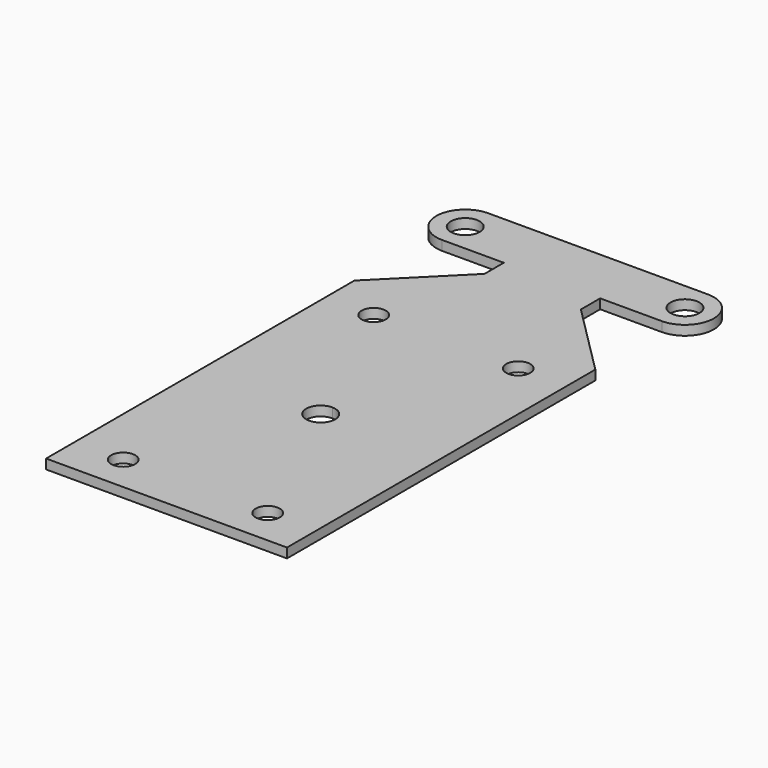
from build123d import *

# Parameters (mm, degrees)
F0_W     = 25
F0_H     = 15
F0_R     = 2.5
F0_R_2   = 3
F1_DEPTH = 2


with BuildPart() as f1:
    # F0 (on Top) → F1 (new body)
    with BuildSketch(Plane.XY):
        with Locations((12.5, 7.5)):
            Rectangle(F0_W, F0_H)
        with Locations((15, 7.5)):
            Circle(F0_R, mode=Mode.SUBTRACT)
        with Locations((-12.5, 7.5)):
            Rectangle(F0_W, F0_H)
        with Locations((-15, 7.5)):
            Circle(F0_R, mode=Mode.SUBTRACT)
        with BuildLine():
            Line((-25, 15), (0, 15))
            Line((0, 15), (0, 37))
            ThreePointArc((0, 37), (-3, 40), (0, 43))
            Line((0, 43), (0, 65))
            Line((0, 65), (-25, 65))
            Line((-25, 65), (-25, 15))
        make_face()
        with BuildLine():
            Line((0, 37), (0, 15))
            Line((0, 15), (25, 15))
            Line((25, 15), (25, 65))
            Line((25, 65), (0, 65))
            Line((0, 65), (0, 43))
            ThreePointArc((0, 43), (2.12132, 42.12132), (3, 40))
            ThreePointArc((3, 40), (2.12132, 37.87868), (0, 37))
        make_face()
        with Locations((12.5, 72.5)):
            Rectangle(F0_W, F0_H)
        with Locations((15, 72.5)):
            Circle(F0_R, mode=Mode.SUBTRACT)
        with Locations((-12.5, 72.5)):
            Rectangle(F0_W, F0_H)
        with Locations((-15, 72.5)):
            Circle(F0_R, mode=Mode.SUBTRACT)
        with BuildLine():
            Line((0, 80), (25, 80))
            Line((25, 80), (10, 95))
            Line((10, 95), (10, 100))
            Line((10, 100), (22.800364, 100))
            ThreePointArc((22.800364, 100), (28.800364, 106), (22.800364, 112))
            Line((22.800364, 112), (0, 112))
            Line((0, 112), (0, 80))
        make_face()
        with Locations((22.800364, 106)):
            Circle(F0_R_2, mode=Mode.SUBTRACT)
        with BuildLine():
            Line((-10, 95), (-25, 80))
            Line((-25, 80), (0, 80))
            Line((0, 80), (0, 112))
            Line((0, 112), (-22.800364, 112))
            ThreePointArc((-22.800364, 112), (-28.800364, 106), (-22.800364, 100))
            Line((-22.800364, 100), (-10, 100))
            Line((-10, 100), (-10, 95))
        make_face()
        with Locations((-22.800364, 106)):
            Circle(F0_R_2, mode=Mode.SUBTRACT)
    extrude(amount=F1_DEPTH)


solid = f1.part
